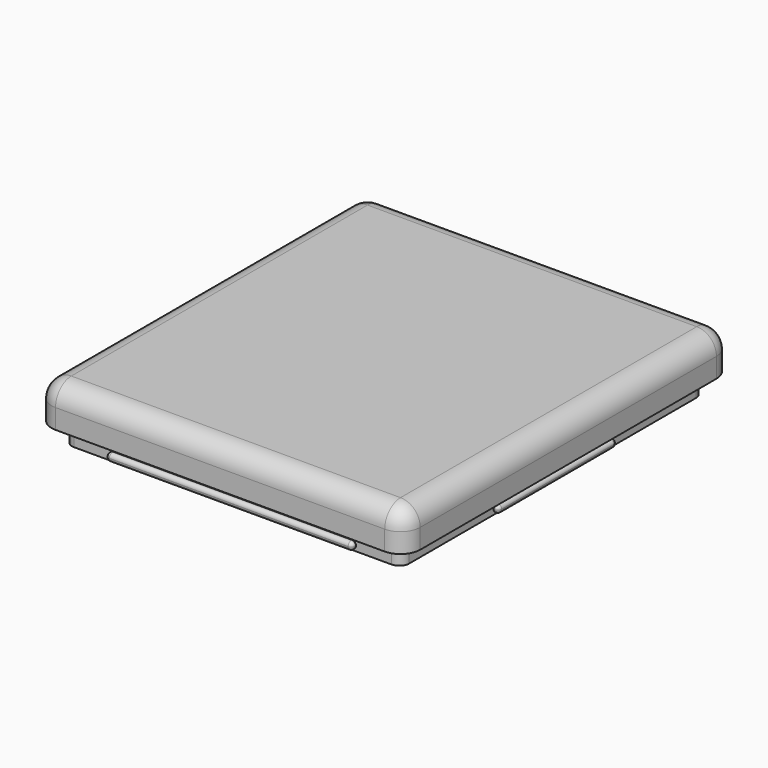
from build123d import *

# Parameters (mm, degrees)
SKETCH043_W     = 37.4
SKETCH043_H     = 41.56
PAD028_DEPTH    = 4
SKETCH044_W     = 34.2
SKETCH044_H     = 38.36
PAD029_DEPTH    = 2
SKETCH045_W     = 32.2
SKETCH045_H     = 36.36
POCKET024_DEPTH = 5
SKETCH046_W     = 25
SKETCH046_H     = 0.8
PAD030_DEPTH    = 0.5
SKETCH047_W     = 15
SKETCH047_H     = 0.8
PAD033_DEPTH    = 0.5
SKETCH054_W     = 15
SKETCH054_H     = 0.8
PAD034_DEPTH    = 0.5
SKETCH055_W     = 25
SKETCH055_H     = 0.8
PAD035_DEPTH    = 0.5
FILLET019_R     = 0.39
FILLET020_R     = 1
FILLET021_R     = 2


with BuildPart() as part:
    # Sketch043 (on DatumPlane) → Pad028 (new body)
    with BuildSketch(Plane.XY.offset(6.7)):
        with Locations((16.9, 22.98)):
            Rectangle(SKETCH043_W, SKETCH043_H)
    extrude(amount=PAD028_DEPTH)

    # Sketch044 (on Face5 of Pad028) → Pad029 (join)
    with BuildSketch(Plane(origin=(0, 0, 6.7), x_dir=(1, 0, 0), z_dir=(0, 0, -1))):
        with Locations((16.9, -22.98)):
            Rectangle(SKETCH044_W, SKETCH044_H)
    extrude(amount=PAD029_DEPTH)

    # Sketch045 (on Face11 of Pad029) → Pocket024 (cut)
    with BuildSketch(Plane(origin=(0, 0, 4.7), x_dir=(1, 0, 0), z_dir=(0, 0, -1))):
        with Locations((16.9, -22.98)):
            Rectangle(SKETCH045_W, SKETCH045_H)
    extrude(amount=-POCKET024_DEPTH, mode=Mode.SUBTRACT)

    # Sketch046 (on Face9 of Pocket024) → Pad030 (join)
    with BuildSketch(Plane(origin=(0, 42.16, 6.7), x_dir=(-1, 0, 0), z_dir=(0, 1, 0))):
        with Locations((-16.9, -1.5)):
            Rectangle(SKETCH046_W, SKETCH046_H)
    extrude(amount=PAD030_DEPTH)

    # Sketch047 (on Face10 of Pad030) → Pad033 (join)
    with BuildSketch(Plane(origin=(-0.2, 0, 6.7), x_dir=(0, -1, 0), z_dir=(-1, 0, 0))):
        with Locations((-23, -1.5)):
            Rectangle(SKETCH047_W, SKETCH047_H)
    extrude(amount=PAD033_DEPTH)

    # Sketch054 (on Face8 of Pad033) → Pad034 (join)
    with BuildSketch(Plane(origin=(34, 0, 6.7), x_dir=(0, 1, 0), z_dir=(1, 0, 0))):
        with Locations((23.01, -1.5)):
            Rectangle(SKETCH054_W, SKETCH054_H)
    extrude(amount=PAD034_DEPTH)

    # Sketch055 (on Face7 of Pad034) → Pad035 (join)
    with BuildSketch(Plane(origin=(0, 3.8, 6.7), x_dir=(1, 0, 0), z_dir=(0, -1, 0))):
        with Locations((16.9, -1.5)):
            Rectangle(SKETCH055_W, SKETCH055_H)
    extrude(amount=PAD035_DEPTH)

    # Fillet019
    fillet019_edges = [part.edges().sort_by_distance(p)[0] for p in [
        (34.5, 23.01, 4.8),
        (34.5, 30.51, 5.2),
        (34.5, 23.01, 5.6),
        (34.25, 30.51, 4.8),
        (34.25, 15.51, 4.8),
        (34.5, 15.51, 5.2),
        (34.25, 15.51, 5.6),
        (34.25, 30.51, 5.6),
        (29.4, 3.55, 5.6),
        (29.4, 3.55, 4.8),
        (29.4, 3.3, 5.2),
        (16.9, 3.3, 4.8),
        (16.9, 3.3, 5.6),
        (4.4, 3.55, 5.6),
        (4.4, 3.55, 4.8),
        (4.4, 3.3, 5.2),
        (-0.45, 15.5, 5.6),
        (-0.45, 15.5, 4.8),
        (-0.7, 15.5, 5.2),
        (-0.7, 23, 4.8),
        (-0.7, 23, 5.6),
        (-0.7, 30.5, 5.2),
        (-0.45, 30.5, 5.6),
        (-0.45, 30.5, 4.8),
        (4.4, 42.41, 5.6),
        (4.4, 42.41, 4.8),
        (4.4, 42.66, 5.2),
        (16.9, 42.66, 4.8),
        (16.9, 42.66, 5.6),
        (29.4, 42.41, 5.6),
        (29.4, 42.66, 5.2),
        (29.4, 42.41, 4.8),
    ]]
    fillet(fillet019_edges, radius=FILLET019_R)

    # Fillet020
    fillet020_edges = [part.edges().sort_by_distance(p)[0] for p in [
        (-0.2, 42.16, 5.7),
        (34, 42.16, 5.7),
        (34, 3.8, 5.7),
        (-0.2, 3.8, 5.7),
    ]]
    fillet(fillet020_edges, radius=FILLET020_R)

    # Fillet021
    fillet021_edges = [part.edges().sort_by_distance(p)[0] for p in [
        (35.6, 2.2, 8.7),
        (16.9, 2.2, 10.7),
        (35.6, 22.98, 10.7),
        (-1.8, 2.2, 8.7),
        (-1.8, 22.98, 10.7),
        (16.9, 43.76, 10.7),
        (35.6, 43.76, 8.7),
        (-1.8, 43.76, 8.7),
    ]]
    fillet(fillet021_edges, radius=FILLET021_R)


solid = part.part
